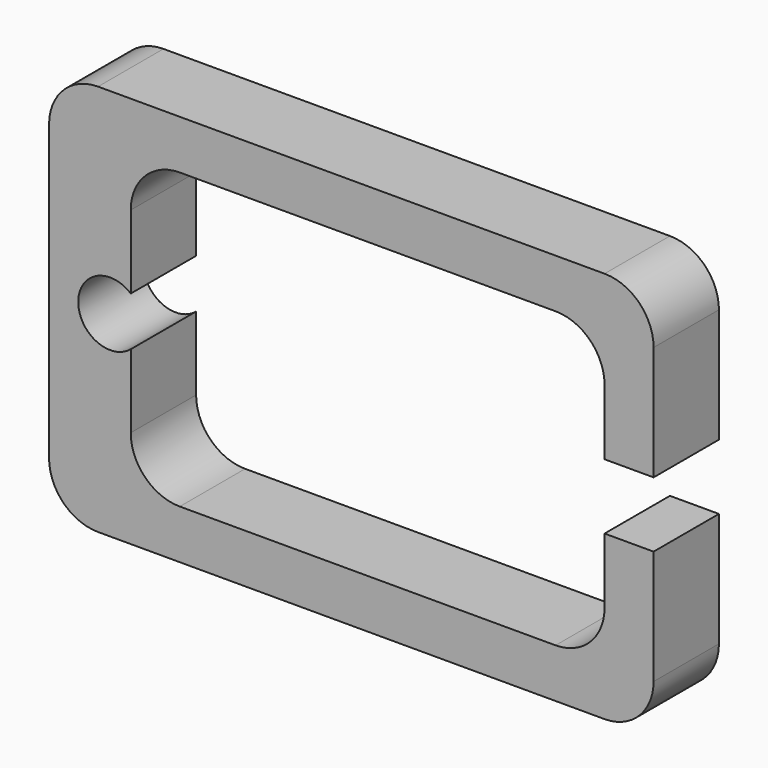
from build123d import *

# Parameters (mm, degrees)
F1_DEPTH = 2.5
F2_R     = 3


with BuildPart() as f1:
    # F0 (on Front) → F1 (new body, symmetric)
    with BuildSketch(Plane.XZ):
        with BuildLine():
            Line((18.5, 12), (-18.5, 12))
            Line((-18.5, 12), (-18.5, -12))
            Line((-18.5, -12), (18.5, -12))
            Line((18.5, -12), (18.5, -2))
            Line((18.5, -2), (15.5, -2))
            Line((15.5, -2), (15.5, -9))
            Line((15.5, -9), (-13.5, -9))
            Line((-13.5, -9), (-13.5, -1.5))
            ThreePointArc((-13.5, -1.5), (-16.714869, 0), (-13.5, 1.5))
            Line((-13.5, 1.5), (-13.5, 9))
            Line((-13.5, 9), (15.5, 9))
            Line((15.5, 9), (15.5, 2))
            Line((15.5, 2), (18.5, 2))
            Line((18.5, 2), (18.5, 12))
        make_face()
    extrude(amount=F1_DEPTH, both=True)

    # F2
    f2_edges = [f1.edges().sort_by_distance(p)[0] for p in [
        (18.5, 0, 12),
        (18.5, 0, -12),
        (-18.5, 0, 12),
        (-18.5, 0, -12),
        (15.5, 0, -9),
        (15.5, 0, 9),
        (-13.5, 0, 9),
        (-13.5, 0, -9),
    ]]
    fillet(f2_edges, radius=F2_R)


solid = f1.part
